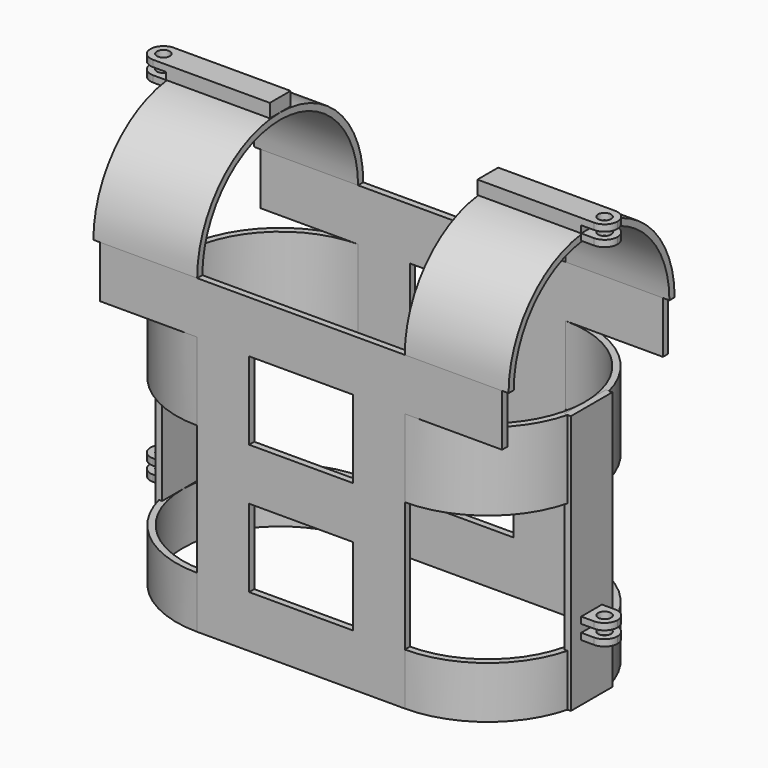
from build123d import *

# Parameters (mm, degrees)
F0_W          = 50.8
F0_H          = 50.8
F0_H_2        = 76.2
F0_W_2        = 95.25
F1_DEPTH      = 3.175
F0_W_3        = 6.35
F2_ANGLE_BACK = 90
F2_ANGLE      = 180
F5_ANGLE_BACK = 90
F5_ANGLE      = 180
F0_W_4        = 101.6
F0_H_3        = 6.35
F6_ANGLE_BACK = 90
F6_ANGLE      = 180
F0_W_5        = 25.4
F7_DEPTH      = 12.7
F0_H_4        = 6.985
F9_DEPTH      = 508
F8_R          = 6.35
F13_DEPTH     = 25.4


with BuildPart() as f1:
    # F0 (on Front) → F1 (new body, symmetric)
    with BuildSketch(Plane.XZ):
        with Locations((25.4, 279.4)):
            Rectangle(F0_W, F0_H)
        with Locations((-25.4, 279.4)):
            Rectangle(F0_W, F0_H)
        with Locations((-76.2, 279.4)):
            Rectangle(F0_W, F0_H)
        with Locations((-76.2, 215.9)):
            Rectangle(F0_W, F0_H_2)
        with Locations((76.2, 279.4)):
            Rectangle(F0_W, F0_H)
        with Locations((76.2, 215.9)):
            Rectangle(F0_W, F0_H_2)
        with Locations((76.2, 152.4)):
            Rectangle(F0_W, F0_H)
        with Locations((25.4, 152.4)):
            Rectangle(F0_W, F0_H)
        with Locations((-25.4, 152.4)):
            Rectangle(F0_W, F0_H)
        with Locations((-76.2, 152.4)):
            Rectangle(F0_W, F0_H)
        with Locations((-76.2, 88.9)):
            Rectangle(F0_W, F0_H_2)
        with Locations((76.2, 88.9)):
            Rectangle(F0_W, F0_H_2)
        with Locations((76.2, 25.4)):
            Rectangle(F0_W, F0_H)
        with Locations((25.4, 25.4)):
            Rectangle(F0_W, F0_H)
        with Locations((-25.4, 25.4)):
            Rectangle(F0_W, F0_H)
        with Locations((-76.2, 25.4)):
            Rectangle(F0_W, F0_H)
        with Locations((149.225, 279.4)):
            Rectangle(F0_W_2, F0_H)
        with Locations((-149.225, 279.4)):
            Rectangle(F0_W_2, F0_H)
    extrude(amount=F1_DEPTH, both=True)


with BuildPart() as f2:
    # F0 (on Front) → F2 (revolve)
    with BuildSketch(Plane.XZ, mode=Mode.PRIVATE) as f2_sk:
        with Locations((-200.025, 25.4)):
            Rectangle(F0_W_3, F0_H)
    revolve(f2_sk.sketch.rotate(Axis((-101.6, 0, 203.2), (0, 0, -1)), -F2_ANGLE_BACK), axis=Axis((-101.6, 0, 203.2), (0, 0, -1)), revolution_arc=F2_ANGLE)


with BuildPart() as f2b:
    # F0 (on Front) → F2, piece 2 (revolve)
    with BuildSketch(Plane.XZ, mode=Mode.PRIVATE) as f2_sk:
        with Locations((-200.025, 215.9)):
            Rectangle(F0_W_3, F0_H_2)
    revolve(f2_sk.sketch.rotate(Axis((-101.6, 0, 203.2), (0, 0, -1)), -F2_ANGLE_BACK), axis=Axis((-101.6, 0, 203.2), (0, 0, -1)), revolution_arc=F2_ANGLE)


with BuildPart() as f3_1:
    # F3: copy of F1
    add(f1.part.moved(Location((0, -98.425, 0))))


with BuildPart() as f1_1:
    # F4: moved
    add(f1.part.moved(Location((0, 98.425, 0))))


with BuildPart() as f5:
    # F0 (on Front) → F5 (revolve)
    with BuildSketch(Plane.XZ, mode=Mode.PRIVATE) as f5_sk:
        with Locations((200.025, 25.4)):
            Rectangle(F0_W_3, F0_H)
    revolve(f5_sk.sketch.rotate(Axis((101.6, 0, 203.2), (0, 0, 1)), -F5_ANGLE_BACK), axis=Axis((101.6, 0, 203.2), (0, 0, 1)), revolution_arc=F5_ANGLE)


with BuildPart() as f5b:
    # F0 (on Front) → F5, piece 2 (revolve)
    with BuildSketch(Plane.XZ, mode=Mode.PRIVATE) as f5_sk:
        with Locations((200.025, 215.9)):
            Rectangle(F0_W_3, F0_H_2)
    revolve(f5_sk.sketch.rotate(Axis((101.6, 0, 203.2), (0, 0, 1)), -F5_ANGLE_BACK), axis=Axis((101.6, 0, 203.2), (0, 0, 1)), revolution_arc=F5_ANGLE)


with BuildPart() as f6:
    # F0 (on Front) → F6 (revolve)
    with BuildSketch(Plane.XZ, mode=Mode.PRIVATE) as f6_sk:
        with Locations((-152.4, 403.225)):
            Rectangle(F0_W_4, F0_H_3)
    revolve(f6_sk.sketch.rotate(Axis((0, 0, 304.8), (-1, 0, 0)), -F6_ANGLE_BACK), axis=Axis((0, 0, 304.8), (-1, 0, 0)), revolution_arc=F6_ANGLE)


with BuildPart() as f6b:
    # F0 (on Front) → F6, piece 2 (revolve)
    with BuildSketch(Plane.XZ, mode=Mode.PRIVATE) as f6_sk:
        with Locations((152.4, 403.225)):
            Rectangle(F0_W_4, F0_H_3)
    revolve(f6_sk.sketch.rotate(Axis((0, 0, 304.8), (-1, 0, 0)), -F6_ANGLE_BACK), axis=Axis((0, 0, 304.8), (-1, 0, 0)), revolution_arc=F6_ANGLE)


with BuildPart() as f7:
    # F0 (on Front) → F7 (new body, symmetric)
    with BuildSketch(Plane.XZ):
        with Locations((317.5, 403.225)):
            Rectangle(F0_W_5, F0_H_3)
    extrude(amount=F7_DEPTH, both=True)


with BuildPart() as f7b:
    # F0 (on Front) → F7, piece 2 (new body, symmetric)
    with BuildSketch(Plane.XZ):
        with Locations((-317.5, 403.225)):
            Rectangle(F0_W_5, F0_H_3)
    extrude(amount=F7_DEPTH, both=True)


with BuildPart() as f7c:
    # F0 (on Front) → F7, piece 3 (new body, symmetric)
    with BuildSketch(Plane.XZ):
        with Locations((-254, 409.8925)):
            Rectangle(F0_W_4, F0_H_4)
        Polygon((-203.2, 413.385), (-203.2, 419.735), (-330.2, 419.735), (-330.2, 413.385), (-304.8, 413.385), align=None)
    extrude(amount=F7_DEPTH, both=True)


with BuildPart() as f7d:
    # F0 (on Front) → F7, piece 4 (new body, symmetric)
    with BuildSketch(Plane.XZ):
        with Locations((254, 409.8925)):
            Rectangle(F0_W_4, F0_H_4)
        Polygon((330.2, 419.735), (203.2, 419.735), (203.2, 413.385), (304.8, 413.385), (330.2, 413.385), align=None)
    extrude(amount=F7_DEPTH, both=True)


with BuildPart() as f9:
    # F8 (on Top) → F9 (new body)
    with BuildSketch(Plane.XY):
        with BuildLine():
            Line((330.2, 12.7), (317.5, 12.7))
            ThreePointArc((317.5, 12.7), (326.4802561211, 8.9802561211), (330.2, 0))
            Line((330.2, 0), (330.2, 12.7))
        make_face()
    extrude(amount=F9_DEPTH)


with BuildPart() as f9b:
    # F8 (on Top) → F9, piece 2 (new body)
    with BuildSketch(Plane.XY):
        with BuildLine():
            ThreePointArc((330.2, 0), (326.4802561211, -8.9802561211), (317.5, -12.7))
            Line((317.5, -12.7), (330.2, -12.7))
            Line((330.2, -12.7), (330.2, 0))
        make_face()
    extrude(amount=F9_DEPTH)


with BuildPart() as f9c:
    # F8 (on Top) → F9, piece 3 (new body)
    with BuildSketch(Plane.XY):
        with BuildLine():
            ThreePointArc((323.85, 0), (317.5, 6.35), (311.15, 0))
            ThreePointArc((311.15, 0), (317.5, -6.35), (323.85, 0))
        make_face()
    extrude(amount=F9_DEPTH)


with BuildPart() as f9d:
    # F8 (on Top) → F9, piece 4 (new body)
    with BuildSketch(Plane.XY):
        with BuildLine():
            ThreePointArc((-330.2, 0), (-326.4802561211, 8.9802561211), (-317.5, 12.7))
            Line((-317.5, 12.7), (-330.2, 12.7))
            Line((-330.2, 12.7), (-330.2, 0))
        make_face()
    extrude(amount=F9_DEPTH)


with BuildPart() as f9e:
    # F8 (on Top) → F9, piece 5 (new body)
    with BuildSketch(Plane.XY):
        with Locations((-317.5, 0)):
            Circle(F8_R)
    extrude(amount=F9_DEPTH)


with BuildPart() as f9f:
    # F8 (on Top) → F9, piece 6 (new body)
    with BuildSketch(Plane.XY):
        with BuildLine():
            Line((-330.2, -12.7), (-317.5, -12.7))
            ThreePointArc((-317.5, -12.7), (-326.4802561211, -8.9802561211), (-330.2, 0))
            Line((-330.2, 0), (-330.2, -12.7))
        make_face()
    extrude(amount=F9_DEPTH)


with BuildPart() as f7c_1:
    add(f7c.part)

    # F10: cut F9e, F9f, F9b, F9, F9c, F9d
    add(f9e.part, mode=Mode.SUBTRACT)
    add(f9f.part, mode=Mode.SUBTRACT)
    add(f9b.part, mode=Mode.SUBTRACT)
    add(f9.part, mode=Mode.SUBTRACT)
    add(f9c.part, mode=Mode.SUBTRACT)
    add(f9d.part, mode=Mode.SUBTRACT)


with BuildPart() as f7b_1:
    add(f7b.part)

    # F10: cut F9e, F9f, F9b, F9, F9c, F9d
    add(f9e.part, mode=Mode.SUBTRACT)
    add(f9f.part, mode=Mode.SUBTRACT)
    add(f9b.part, mode=Mode.SUBTRACT)
    add(f9.part, mode=Mode.SUBTRACT)
    add(f9c.part, mode=Mode.SUBTRACT)
    add(f9d.part, mode=Mode.SUBTRACT)


with BuildPart() as f7d_1:
    add(f7d.part)

    # F10: cut F9e, F9f, F9b, F9, F9c, F9d
    add(f9e.part, mode=Mode.SUBTRACT)
    add(f9f.part, mode=Mode.SUBTRACT)
    add(f9b.part, mode=Mode.SUBTRACT)
    add(f9.part, mode=Mode.SUBTRACT)
    add(f9c.part, mode=Mode.SUBTRACT)
    add(f9d.part, mode=Mode.SUBTRACT)


with BuildPart() as f7_1:
    add(f7.part)

    # F10: cut F9e, F9f, F9b, F9, F9c, F9d
    add(f9e.part, mode=Mode.SUBTRACT)
    add(f9f.part, mode=Mode.SUBTRACT)
    add(f9b.part, mode=Mode.SUBTRACT)
    add(f9.part, mode=Mode.SUBTRACT)
    add(f9c.part, mode=Mode.SUBTRACT)
    add(f9d.part, mode=Mode.SUBTRACT)


with BuildPart() as f7c_2:
    # F11: moved
    add(f7c_1.part.moved(Location((101.6, 0, 0))))


with BuildPart() as f7b_2:
    # F11: moved
    add(f7b_1.part.moved(Location((101.6, 0, 0))))


with BuildPart() as f7d_2:
    # F12: moved
    add(f7d_1.part.moved(Location((-101.6, 0, 0))))


with BuildPart() as f7_2:
    # F12: moved
    add(f7_1.part.moved(Location((-101.6, 0, 0))))


with BuildPart() as f13:
    # F0 (on Front) → F13 (new body, symmetric)
    with BuildSketch(Plane.XZ):
        with Locations((-200.025, 25.4)):
            Rectangle(F0_W_3, F0_H)
        Polygon((-203.2, 50.8), (-196.85, 50.8), (-196.85, 127), (-203.2, 127), (-203.2, 76.2), (-203.2, 63.5), align=None)
        with Locations((-200.025, 152.4)):
            Rectangle(F0_W_3, F0_H)
        with Locations((-200.025, 215.9)):
            Rectangle(F0_W_3, F0_H_2)
        Polygon((-203.2, 50.8), (-196.85, 50.8), (-196.85, 127), (-203.2, 127), (-203.2, 76.2), (-203.2, 63.5), align=None)
    extrude(amount=F13_DEPTH, both=True)


with BuildPart() as f13b:
    # F0 (on Front) → F13, piece 2 (new body, symmetric)
    with BuildSketch(Plane.XZ):
        with Locations((200.025, 25.4)):
            Rectangle(F0_W_3, F0_H)
        Polygon((196.85, 127), (196.85, 50.8), (203.2, 50.8), (203.2, 76.2), (203.2, 127), align=None)
        with Locations((200.025, 152.4)):
            Rectangle(F0_W_3, F0_H)
        with Locations((200.025, 215.9)):
            Rectangle(F0_W_3, F0_H_2)
        Polygon((196.85, 127), (196.85, 50.8), (203.2, 50.8), (203.2, 76.2), (203.2, 127), align=None)
    extrude(amount=F13_DEPTH, both=True)


with BuildPart() as f14_1:
    # F14: copy of F7
    add(f7_2.part.moved(Location((0, 0, -330.2))))


with BuildPart() as f14_2:
    # F14: copy of F7b
    add(f7b_2.part.moved(Location((0, 0, -330.2))))


with BuildPart() as f15_1:
    # F15: copy of F14_1
    add(f14_1.part.moved(Location((0, 0, -13.97))))


with BuildPart() as f15_2:
    # F15: copy of F14_2
    add(f14_2.part.moved(Location((0, 0, -13.97))))


solid = Compound([f2.part, f2b.part, f3_1.part, f1_1.part, f5.part, f5b.part, f6.part, f6b.part, f7c_2.part, f7b_2.part, f7d_2.part, f7_2.part, f13.part, f13b.part, f14_1.part, f14_2.part, f15_1.part, f15_2.part])
